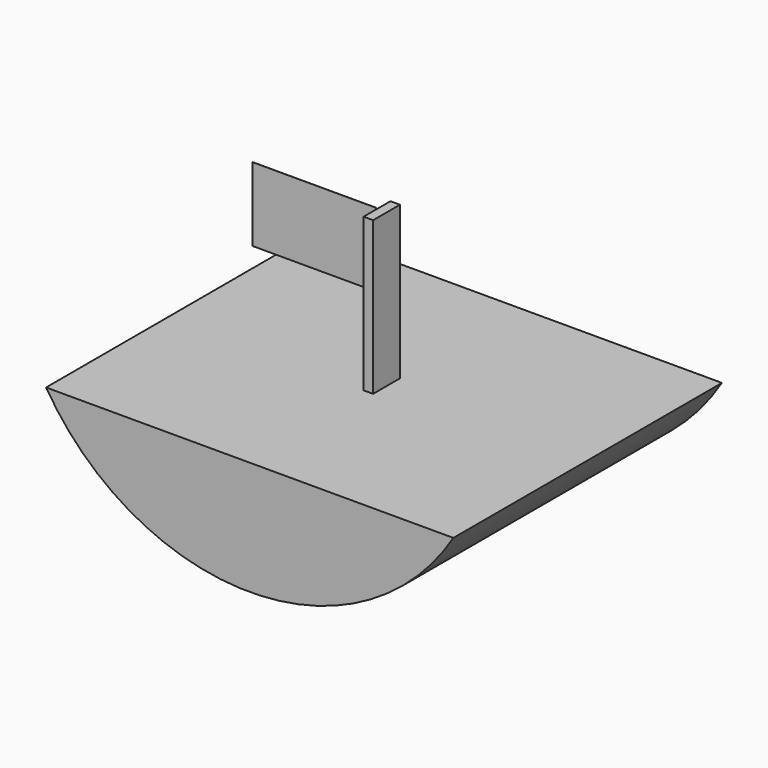
from build123d import *

# Parameters (mm, degrees)
F3_DEPTH = 63.5
F2_W     = 46.754442
F2_H     = 27.935043
F4_DEPTH = 0.0254
F1_W     = 3.607231
F1_H     = 57.831373
F5_DEPTH = 6.35


with BuildPart() as f3:
    # F0 (on Front) → F3 (new body, symmetric)
    with BuildSketch(Plane.XZ):
        with BuildLine():
            Line((76.081164, 0), (-78.002669, 0))
            ThreePointArc((-78.002669, 0), (-0.960752, -43.076659), (76.081164, 0))
        make_face()
    extrude(amount=F3_DEPTH, both=True)

    # F1 (on Front) → F5 (join, symmetric)
    with BuildSketch(Plane.XZ):
        with Locations((-1.803615, 28.915686)):
            Rectangle(F1_W, F1_H)
    extrude(amount=F5_DEPTH, both=True)


with BuildPart() as f4:
    # F2 (on Front) → F4 (new body)
    with BuildSketch(Plane.XZ):
        with Locations((-27.278505, 44.157904)):
            Rectangle(F2_W, F2_H)
    extrude(amount=F4_DEPTH)


solid = Compound([f3.part, f4.part])
